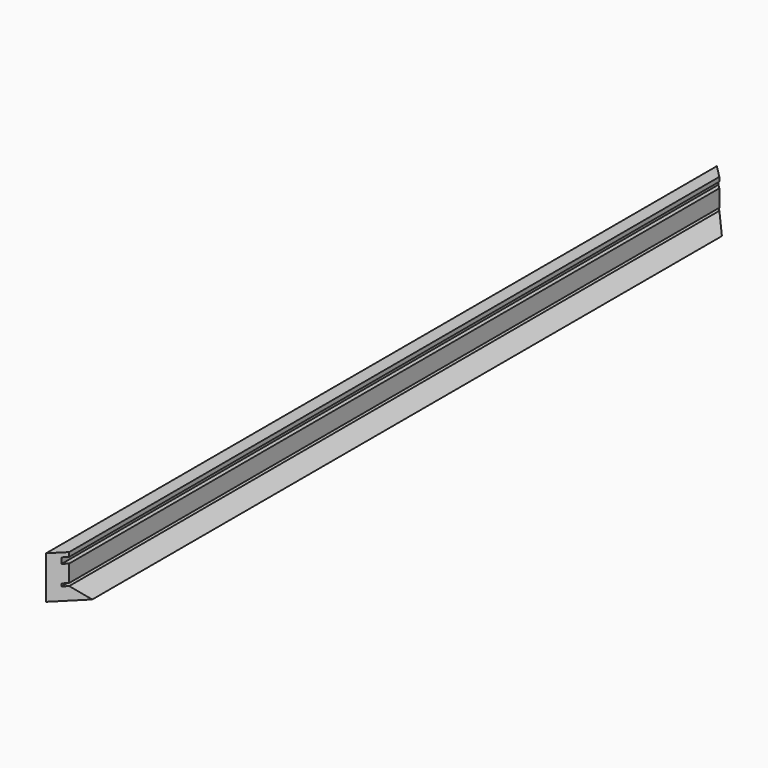
from build123d import *

# Parameters (mm, degrees)
F1_DEPTH = 1244.6
F3_DEPTH = 63.5


with BuildPart() as f1:
    # F0 (on Front) → F1 (new body)
    with BuildSketch(Plane.XZ):
        Polygon((19.05, 62.158676461), (0, 62.158676461), (0, -1.341323539), (38.1, -1.341323539), (19.05, 17.708676461), (12.7, 17.708676461), (12.7, 21.772676461), (19.05, 21.772676461), (19.05, 47.172676461), (12.7, 47.172676461), (12.7, 55.808676461), (19.05, 55.808676461), align=None)
    extrude(amount=F1_DEPTH)

    # F2 (on face) → F3 (cut)
    with BuildSketch(Plane.XY.offset(62.158676461)):
        Polygon((19.05, -1225.55), (0, -1244.6), (19.05, -1244.6), align=None)
        Polygon((38.1, -1206.5), (19.05, -1225.55), (19.05, -1244.6), (38.1, -1244.6), align=None)
        Polygon((19.05, 0), (0, 0), (19.05, -19.05), align=None)
        Polygon((38.1, 0), (19.05, 0), (19.05, -19.05), (38.1, -38.1), align=None)
    extrude(amount=-F3_DEPTH, mode=Mode.SUBTRACT)


solid = f1.part
